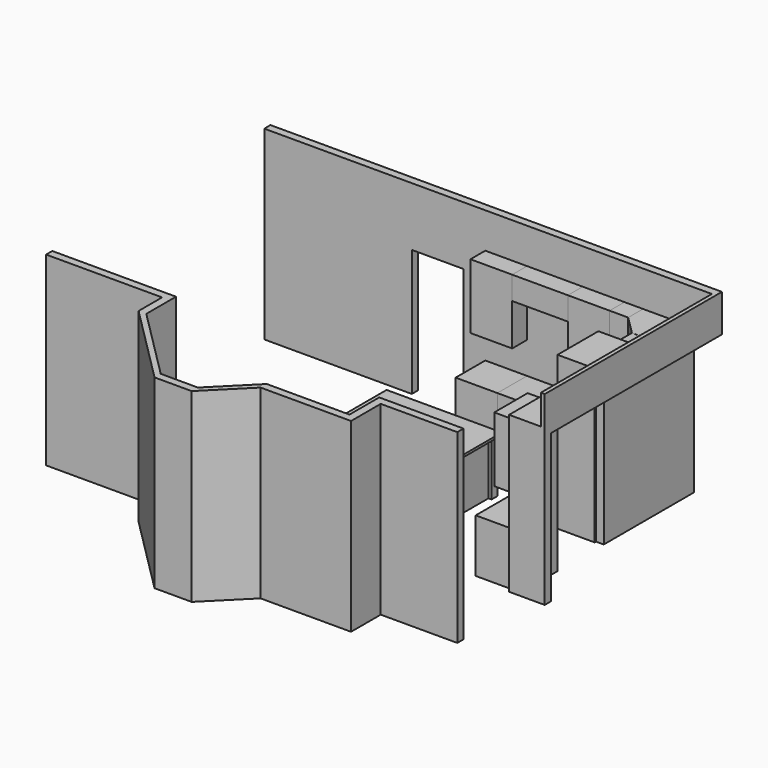
from build123d import *

# Parameters (mm, degrees)
F0_W      = 3556
F0_H      = 127
F1_DEPTH  = 3048
F3_DEPTH  = 3048
F4_W      = 127
F4_H      = 838.2
F5_DEPTH  = 3048
F6_W      = 1016
F6_H      = 127
F7_DEPTH  = 3048
F8_W      = 127
F8_H      = 482.6
F9_DEPTH  = 3048
F10_W     = 368.3
F10_H     = 127
F11_DEPTH = 3048
F12_W     = 996.95
F12_H     = 2095.5
F13_DEPTH = 25.4
F14_W     = 850.9
F14_H     = 965.2
F15_DEPTH = 127
F16_W     = 127
F16_H     = 965.2
F16_H_2   = 2082.8
F17_DEPTH = 2423.611736456
F18_W     = 1059.5979121052
F18_H     = 933.45
F19_DEPTH = 127
F21_W     = 457.2
F21_H     = 127
F22_DEPTH = 3048
F24_W     = 520.7
F24_H     = 3638.55
F25_DEPTH = 127
F26_W     = 3699.2286321938
F26_H     = 1626.0209083557
F27_DEPTH = 1270
F29_DEPTH = 127
F30_W     = 63.5
F30_H     = 615.95
F31_DEPTH = 3511.55
F32_W     = 1473.2
F32_H     = 2476.5
F33_DEPTH = 76.2
F34_W     = 609.6
F34_H     = 685.8
F35_DEPTH = 876.3
F37_DEPTH = 876.3
F39_DEPTH = 2133.6
F41_W     = 304.8
F41_H     = 685.8
F42_DEPTH = 1066.8
F43_W     = 304.8
F43_H     = 304.8
F44_DEPTH = 1066.8
F46_DEPTH = 1066.8
F47_W     = 304.8
F47_H     = 304.8
F48_DEPTH = 1066.8
F49_W     = 685.8
F49_H     = 609.6
F50_DEPTH = 876.3
F51_W     = 914.4
F51_H     = 609.6
F52_DEPTH = 876.3
F53_W     = 685.8
F53_H     = 609.6
F54_DEPTH = 876.3
F55_W     = 685.8
F55_H     = 304.8
F56_DEPTH = 1066.8
F57_W     = 914.4
F57_H     = 304.8
F58_DEPTH = 381
F59_W     = 685.8
F59_H     = 304.8
F60_DEPTH = 1066.8
F61_DEPTH = 381
F62_W     = 609.6
F62_H     = 914.4
F63_DEPTH = 876.3
F65_DEPTH = 876.3
F67_W     = 1892.3
F67_H     = 2070.1
F68_DEPTH = 38.1
F69_W     = 901.7
F69_H     = 755.65
F70_DEPTH = 1752.6
F71_W     = 381
F71_H     = 609.6
F72_DEPTH = 876.3
F73_W     = 914.4
F73_H     = 609.6
F74_DEPTH = 609.6
F75_W     = 381
F75_H     = 304.8
F76_DEPTH = 1066.8


with BuildPart() as f1:
    # F0 (on Top) → F1 (new body)
    with BuildSketch(Plane.XY):
        with Locations((-8.052283898, -253.0751817405)):
            Rectangle(F0_W, F0_H)
    extrude(amount=F1_DEPTH)

    # F2 (on face) → F3 (join, through all)
    with BuildSketch(Plane(origin=(0, 0, 0), x_dir=(1, 0, 0), z_dir=(0, 0, -1))):
        Polygon((1769.947716102, 2043.7751817405), (1769.947716102, 316.5751817405), (1769.947716102, 189.5751817405), (1896.947716102, 189.5751817405), (1896.947716102, 2043.7751817405), align=None)
    extrude(amount=-F3_DEPTH)

    # F14 (on face) → F15 (join, through all)
    with BuildSketch(Plane.XZ.offset(316.5751817405)):
        with Locations((-2211.502283898, 2565.4)):
            Rectangle(F14_W, F14_H)
    extrude(amount=-F15_DEPTH)

    # F16 (on face) → F17 (join, through all)
    with BuildSketch(Plane(origin=(-2636.952283898, 0, 0), x_dir=(0, -1, 0), z_dir=(-1, 0, 0))):
        with Locations((253.0751817405, 2565.4)):
            Rectangle(F16_W, F16_H)
        with Locations((253.0751817405, 1041.4)):
            Rectangle(F16_W, F16_H_2)
    extrude(amount=F17_DEPTH)


with BuildPart() as f5:
    # F4 (on face) → F5 (new body, through all)
    with BuildSketch(Plane(origin=(0, 0, 0), x_dir=(1, 0, 0), z_dir=(0, 0, -1))):
        with Locations((1833.447716102, 3409.0251817405)):
            Rectangle(F4_W, F4_H)
    extrude(amount=-F5_DEPTH)


with BuildPart() as f7:
    # F6 (on face) → F7 (new body, through all)
    with BuildSketch(Plane(origin=(0, 0, 0), x_dir=(1, 0, 0), z_dir=(0, 0, -1))):
        with Locations((1261.947716102, 5288.6251817405)):
            Rectangle(F6_W, F6_H)
    extrude(amount=-F7_DEPTH)

    # F8 (on face) → F9 (join, through all)
    with BuildSketch(Plane(origin=(0, 0, 0), x_dir=(1, 0, 0), z_dir=(0, 0, -1))):
        Polygon((-3028.564020354, 5277.9493022342), (-1843.1702123728, 6463.3431102153), (-1843.1702123728, 6590.3431102153), (-3155.564020354, 5277.9493022342), (-3155.564020354, 4795.3493022342), (-5060.564020354, 4795.3493022342), (-5060.564020354, 4668.3493022342), (-3028.564020354, 4668.3493022342), align=None)
        Polygon((-1233.5702123728, 6463.3431102153), (-604.952283898, 5834.7251817405), (-604.952283898, 5961.7251817405), (-1233.5702123728, 6590.3431102153), (-1843.1702123728, 6590.3431102153), (-1843.1702123728, 6463.3431102153), align=None)
        Polygon((-604.952283898, 5834.7251817405), (753.947716102, 5834.7251817405), (880.947716102, 5834.7251817405), (880.947716102, 5961.7251817405), (-604.952283898, 5961.7251817405), align=None)
        with Locations((817.447716102, 5593.4251817405)):
            Rectangle(F8_W, F8_H)
    extrude(amount=-F9_DEPTH)

    # F10 (on face) → F11 (join, through all)
    with BuildSketch(Plane(origin=(0, 0, 0), x_dir=(1, 0, 0), z_dir=(0, 0, -1))):
        with Locations((1954.097716102, 5288.6251817405)):
            Rectangle(F10_W, F10_H)
    extrude(amount=-F11_DEPTH)

    # F12 (on face) → F13 (join)
    with BuildSketch(Plane(origin=(0, -5225.1251817405, 0), x_dir=(-1, 0, 0), z_dir=(0, 1, 0))):
        with Locations((-1328.622716102, 1047.75)):
            Rectangle(F12_W, F12_H)
    extrude(amount=F13_DEPTH)

    # F32 (on face) → F33 (cut)
    with BuildSketch(Plane(origin=(-4153.2566612941, -4153.2566612941, 0), x_dir=(-0.7071067812, 0.7071067812, 0), z_dir=(0.7071067812, 0.7071067812, 0))):
        with Locations((-2428.7555863187, 1238.25)):
            Rectangle(F32_W, F32_H)
    extrude(amount=-F33_DEPTH, mode=Mode.SUBTRACT)


with BuildPart() as f19:
    # F18 (on face) → F19 (new body, through all)
    with BuildSketch(Plane(origin=(1769.947716102, 0, 0), x_dir=(0, -1, 0), z_dir=(-1, 0, 0))):
        with Locations((2573.5741377931, 2581.275)):
            Rectangle(F18_W, F18_H)
    extrude(amount=-F19_DEPTH)


with BuildPart() as f1_1:
    add(f1.part)

    # F20: union F19, F5
    add(f19.part)
    add(f5.part)

    # F21 (on face) → F22 (join, through all)
    with BuildSketch(Plane.XY.offset(3048)):
        with Locations((2125.547716102, -3764.6251817405)):
            Rectangle(F21_W, F21_H)
    extrude(amount=-F22_DEPTH)

    # F24 (on offset) → F25 (join)
    with BuildSketch(Plane(origin=(0, 0, 2559.05), x_dir=(1, 0, 0), z_dir=(0, 0, -1))):
        with Locations((2030.297716102, 2008.8501817405)):
            Rectangle(F24_W, F24_H)
    extrude(amount=F25_DEPTH)

    # F26 (on face) → F27 (cut)
    with BuildSketch(Plane.YZ.offset(2290.647716102)):
        with Locations((-2166.1894978374, 3372.0604541779)):
            Rectangle(F26_W, F26_H)
    extrude(amount=-F27_DEPTH, mode=Mode.SUBTRACT)

    # F28 (on face) → F29 (join, through all)
    with BuildSketch(Plane(origin=(0, -189.5751817405, 0), x_dir=(-1, 0, 0), z_dir=(0, 1, 0))):
        Polygon((-1896.947716102, 2559.05), (-1896.947716102, 3048), (-2354.147716102, 3048), (-2354.147716102, 2432.05), (-2290.647716102, 2432.05), (-2290.647716102, 2559.05), align=None)
    extrude(amount=-F29_DEPTH)

    # F30 (on face) → F31 (join, through all)
    with BuildSketch(Plane(origin=(0, -189.5751817405, 0), x_dir=(-1, 0, 0), z_dir=(0, 1, 0))):
        with Locations((-2322.397716102, 2740.025)):
            Rectangle(F30_W, F30_H)
    extrude(amount=-F31_DEPTH)


with BuildPart() as f35:
    # F34 (on face) → F35 (new body)
    with BuildSketch(Plane(origin=(0, 0, 0), x_dir=(1, 0, 0), z_dir=(0, 0, -1))):
        with Locations((1465.147716102, 3409.0251817405)):
            Rectangle(F34_W, F34_H)
    extrude(amount=-F35_DEPTH)


with BuildPart() as f37:
    # F36 (on face) → F37 (new body, through all)
    with BuildSketch(Plane(origin=(0, 0, 0), x_dir=(1, 0, 0), z_dir=(0, 0, -1))):
        Polygon((855.547716102, 926.1751817405), (855.547716102, 316.5751817405), (1769.947716102, 316.5751817405), (1769.947716102, 1230.9751817405), (1160.347716102, 1230.9751817405), (1160.347716102, 926.1751817405), align=None)
    extrude(amount=-F37_DEPTH)


with BuildPart() as f39:
    # F38 (on face) → F39 (new body)
    with BuildSketch(Plane(origin=(0, 0, 0), x_dir=(1, 0, 0), z_dir=(0, 0, -1))):
        Polygon((1160.347716102, 1233.342051506), (1769.947716102, 1233.342051506), (1769.947716102, 2043.7751817405), (1769.947716102, 2071.542051506), (1160.347716102, 2071.542051506), align=None)
    extrude(amount=-F39_DEPTH)


with BuildPart() as f42:
    # F41 (on offset) → F42 (new body)
    with BuildSketch(Plane(origin=(0, 0, 1397), x_dir=(1, 0, 0), z_dir=(0, 0, -1))):
        with Locations((1617.547716102, 3409.0251817405)):
            Rectangle(F41_W, F41_H)
    extrude(amount=-F42_DEPTH)


with BuildPart() as f44:
    # F43 (on face) → F44 (new body, through all)
    with BuildSketch(Plane.XY.offset(2463.8)):
        with Locations((1617.547716102, -1080.942051506)):
            Rectangle(F43_W, F43_H)
    extrude(amount=-F44_DEPTH)


with BuildPart() as f46:
    # F45 (on face) → F46 (new body, through all)
    with BuildSketch(Plane.XY.offset(2463.8)):
        Polygon((1769.947716102, -926.1751817405), (1769.947716102, -316.5751817405), (1160.347716102, -316.5751817405), (1160.347716102, -621.3751817405), (1465.147716102, -926.1751817405), align=None)
    extrude(amount=-F46_DEPTH)


with BuildPart() as f48:
    # F47 (on face) → F48 (new body, through all)
    with BuildSketch(Plane.XY.offset(2463.8)):
        with Locations((1007.947716102, -468.9751817405)):
            Rectangle(F47_W, F47_H)
    extrude(amount=-F48_DEPTH)


with BuildPart() as f50:
    # F49 (on face) → F50 (new body, through all)
    with BuildSketch(Plane.XY.offset(876.3)):
        with Locations((512.647716102, -621.3751817405)):
            Rectangle(F49_W, F49_H)
    extrude(amount=-F50_DEPTH)


with BuildPart() as f52:
    # F51 (on face) → F52 (new body, through all)
    with BuildSketch(Plane.XY.offset(876.3)):
        with Locations((-287.452283898, -621.3751817405)):
            Rectangle(F51_W, F51_H)
    extrude(amount=-F52_DEPTH)


with BuildPart() as f54:
    # F53 (on face) → F54 (new body, through all)
    with BuildSketch(Plane.XY.offset(876.3)):
        with Locations((-1087.552283898, -621.3751817405)):
            Rectangle(F53_W, F53_H)
    extrude(amount=-F54_DEPTH)


with BuildPart() as f56:
    # F55 (on face) → F56 (new body, through all)
    with BuildSketch(Plane.XY.offset(2463.8)):
        with Locations((512.647716102, -468.9751817405)):
            Rectangle(F55_W, F55_H)
    extrude(amount=-F56_DEPTH)


with BuildPart() as f58:
    # F57 (on face) → F58 (new body)
    with BuildSketch(Plane.XY.offset(2463.8)):
        with Locations((-287.452283898, -468.9751817405)):
            Rectangle(F57_W, F57_H)
    extrude(amount=-F58_DEPTH)


with BuildPart() as f60:
    # F59 (on face) → F60 (new body, through all)
    with BuildSketch(Plane.XY.offset(2463.8)):
        with Locations((-1087.552283898, -468.9751817405)):
            Rectangle(F59_W, F59_H)
    extrude(amount=-F60_DEPTH)


with BuildPart() as f61:
    # F61 (new): a face of the model
    f61_faces = [f39.part.faces().sort_by_distance(p)[0] for p in [
        (1465.147716102, -1652.442051506, 2133.6),
    ]]
    extrude(f61_faces, amount=F61_DEPTH)


with BuildPart() as f63:
    # F62 (on face) → F63 (new body)
    with BuildSketch(Plane(origin=(0, 0, 0), x_dir=(1, 0, 0), z_dir=(0, 0, -1))):
        with Locations((-363.652283898, 2424.7751817405)):
            Rectangle(F62_W, F62_H)
    extrude(amount=-F63_DEPTH)


with BuildPart() as f65:
    # F64 (on face) → F65 (new body, through all)
    with BuildSketch(Plane(origin=(0, 0, 0), x_dir=(1, 0, 0), z_dir=(0, 0, -1))):
        Polygon((-8.052283898, 1967.5751817405), (-58.852283898, 1967.5751817405), (-668.452283898, 1967.5751817405), (-668.452283898, 2881.9751817405), (-668.452283898, 3491.5751817405), (-8.052283898, 3491.5751817405), (-8.052283898, 3618.5751817405), (-795.452283898, 3618.5751817405), (-795.452283898, 1840.5751817405), (-8.052283898, 1840.5751817405), align=None)
    extrude(amount=-F65_DEPTH)


with BuildPart() as f68:
    # F67 (on offset) → F68 (new body)
    with BuildSketch(Plane.XY.offset(876.3)):
        with Locations((-916.102283898, -2837.5251817405)):
            Rectangle(F67_W, F67_H)
    extrude(amount=F68_DEPTH)


with BuildPart() as f70:
    # F69 (on face) → F70 (new body)
    with BuildSketch(Plane(origin=(0, 0, 0), x_dir=(1, 0, 0), z_dir=(0, 0, -1))):
        with Locations((296.747716102, 5456.9001817405)):
            Rectangle(F69_W, F69_H)
    extrude(amount=-F70_DEPTH)


with BuildPart() as f72:
    # F71 (on face) → F72 (new body)
    with BuildSketch(Plane(origin=(0, 0, 0), x_dir=(1, 0, 0), z_dir=(0, 0, -1))):
        with Locations((-350.952283898, 5529.9251817405)):
            Rectangle(F71_W, F71_H)
    extrude(amount=-F72_DEPTH)


with BuildPart() as f74:
    # F73 (on face) → F74 (new body)
    with BuildSketch(Plane.XY.offset(2463.8)):
        with Locations((296.747716102, -5529.9251817405)):
            Rectangle(F73_W, F73_H)
    extrude(amount=-F74_DEPTH)


with BuildPart() as f76:
    # F75 (on face) → F76 (new body, through all)
    with BuildSketch(Plane.XY.offset(2463.8)):
        with Locations((-350.952283898, -5682.3251817405)):
            Rectangle(F75_W, F75_H)
    extrude(amount=-F76_DEPTH)


solid = Compound([f7.part, f1_1.part, f35.part, f37.part, f39.part, f42.part, f44.part, f46.part, f48.part, f50.part, f52.part, f54.part, f56.part, f58.part, f60.part, f61.part, f63.part, f65.part, f68.part, f70.part, f72.part, f74.part, f76.part])
